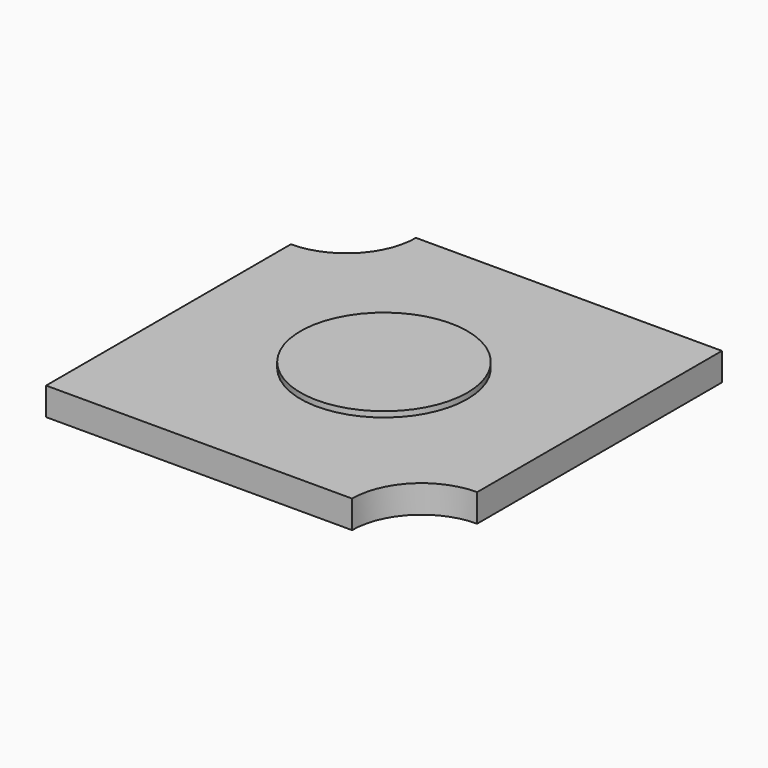
from build123d import *

# Parameters (mm, degrees)
F0_R     = 3
F1_DEPTH = 1
F2_DEPTH = 1.2


with BuildPart() as f1:
    # F0 (on Top) → F1 (new body)
    with BuildSketch(Plane.XY):
        with BuildLine():
            Line((-6.75, -6.75), (4.25, -6.75))
            ThreePointArc((4.25, -6.75), (4.982233, -4.982233), (6.75, -4.25))
            Line((6.75, -4.25), (6.75, 6.75))
            Line((6.75, 6.75), (-4.25, 6.75))
            ThreePointArc((-4.25, 6.75), (-4.982233, 4.982233), (-6.75, 4.25))
            Line((-6.75, 4.25), (-6.75, -6.75))
        make_face()
        Circle(F0_R, mode=Mode.SUBTRACT)
        Circle(F0_R)
    extrude(amount=F1_DEPTH)

    # F0 (on Top) → F2 (join)
    with BuildSketch(Plane.XY):
        Circle(F0_R)
    extrude(amount=F2_DEPTH)


solid = f1.part
